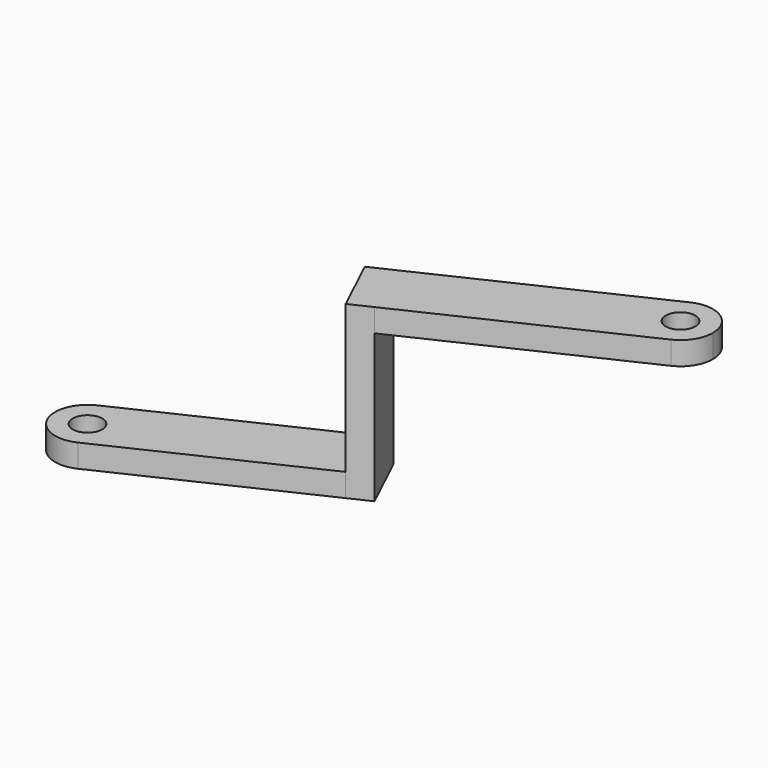
from build123d import *

# Parameters (mm, degrees)
F1_R     = 1.6
F2_DEPTH = 2.5
F3_W     = 7
F3_H     = 18.5
F4_DEPTH = 2.5
F5_R     = 1.6
F6_DEPTH = 2.5


with BuildPart() as f2:
    # F1 (on offset) → F2 (new body)
    with BuildSketch(Plane.XY.offset(16)):
        with BuildLine():
            ThreePointArc((48.0560038294, 18.8446410406), (49.5170345112, 20.1361157487), (50.0602513075, 22.0089299644))
            ThreePointArc((50.0602513075, 22.0089299644), (48.4330655233, 24.9657131681), (45.0644987857, 25.1732188883))
            ThreePointArc((45.0644987857, 25.1732188883), (43.3959623837, 20.5131774426), (48.0560038294, 18.8446410406))
        make_face()
        with Locations((46.5602513075, 22.0089299644)):
            Circle(F1_R, mode=Mode.SUBTRACT)
        with BuildLine():
            ThreePointArc((48.0560038294, 18.8446410406), (43.3959623837, 20.5131774426), (45.0644987857, 25.1732188883))
            Line((45.0644987857, 25.1732188883), (21.7843731319, 14.168753906))
            Line((21.7843731319, 14.168753906), (24.7758781756, 7.8401760584))
            Line((24.7758781756, 7.8401760584), (48.0560038294, 18.8446410406))
        make_face()
    extrude(amount=F2_DEPTH)

    # F3 (on face) → F4 (join)
    with BuildSketch(Plane(origin=(23.2801256538, 11.0044649822, 0), x_dir=(0.4273578634, -0.9040825497, 0), z_dir=(-0.9040825497, -0.4273578634, 0))):
        with Locations((0, 9.25)):
            Rectangle(F3_W, F3_H)
    extrude(amount=F4_DEPTH)

    # F5 (on Top) → F6 (join)
    with BuildSketch(Plane.XY):
        with BuildLine():
            ThreePointArc((1.4957525219, -3.1642889238), (2.9567832036, -1.8728142158), (3.5, 0))
            ThreePointArc((3.5, 0), (1.8728142158, 2.9567832036), (-1.4957525219, 3.1642889238))
            ThreePointArc((-1.4957525219, 3.1642889238), (-3.1642889238, -1.4957525219), (1.4957525219, -3.1642889238))
        make_face()
        Circle(F5_R, mode=Mode.SUBTRACT)
        with BuildLine():
            ThreePointArc((-1.4957525219, 3.1642889238), (1.8728142158, 2.9567832036), (3.5, 0))
            ThreePointArc((3.5, 0), (2.9567832036, -1.8728142158), (1.4957525219, -3.1642889238))
            Line((1.4957525219, -3.1642889238), (22.5156718015, 6.7717813999))
            Line((22.5156718015, 6.7717813999), (19.5241667578, 13.1003592476))
            Line((19.5241667578, 13.1003592476), (-1.4957525219, 3.1642889238))
        make_face()
    extrude(amount=F6_DEPTH)


solid = f2.part
